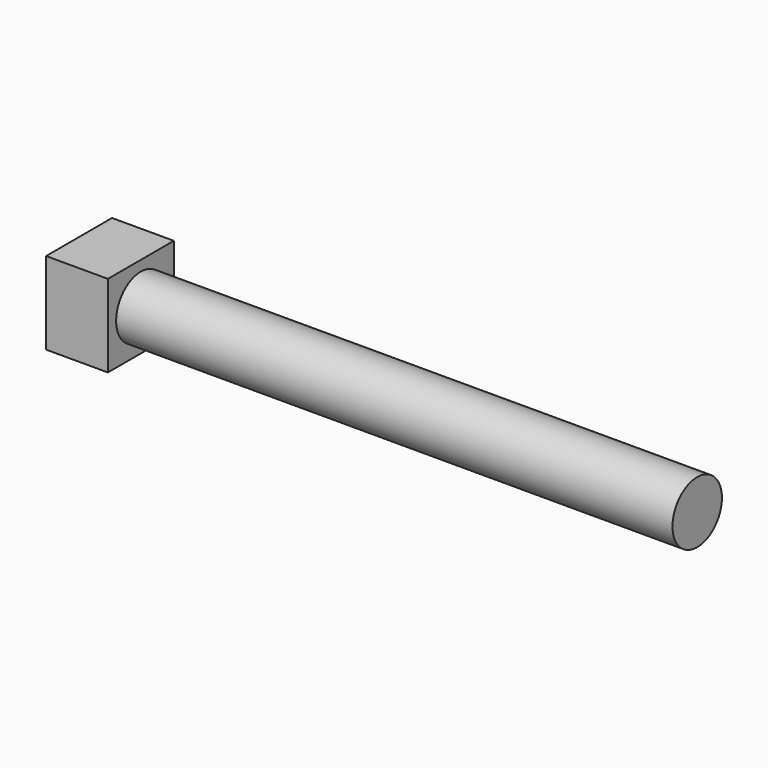
from build123d import *

# Parameters (mm, degrees)
F0_W     = 20
F0_H     = 20
F1_DEPTH = 15
F2_R     = 7.5
F3_DEPTH = 135


with BuildPart() as f1:
    # F0 (on Right) → F1 (new body)
    with BuildSketch(Plane.YZ):
        Rectangle(F0_W, F0_H)
    extrude(amount=F1_DEPTH)

    # F2 (on face) → F3 (join)
    with BuildSketch(Plane.YZ.offset(15)):
        Circle(F2_R)
    extrude(amount=F3_DEPTH)


solid = f1.part
